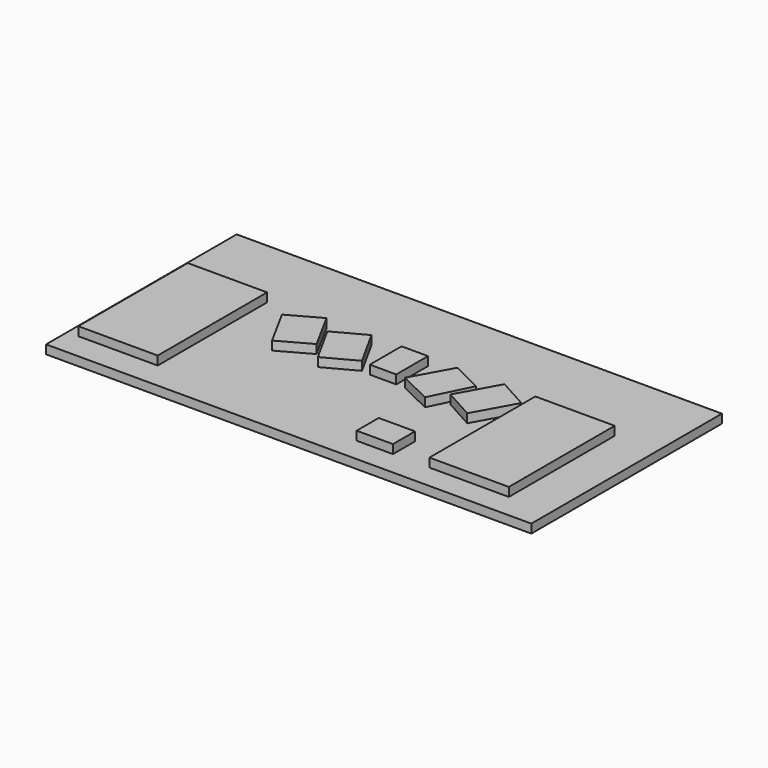
from build123d import *

# Parameters (mm, degrees)
F0_W     = 1397
F0_H     = 685.8
F1_DEPTH = 25.4
F2_W     = 228.6
F2_H     = 393.7
F2_H_2   = 381
F2_W_2   = 104.490054
F2_H_3   = 79.409756
F3_DEPTH = 25.4


with BuildPart() as f1:
    # F0 (on Top) → F1 (new body)
    with BuildSketch(Plane.XY):
        Rectangle(F0_W, F0_H)
    extrude(amount=F1_DEPTH)


with BuildPart() as f3:
    # F2 (on face) → F3 (new body)
    with BuildSketch(Plane.XY.offset(25.4)):
        Polygon((-38.1, 110.738006), (-38.1, -3.421758), (38.1, -3.561994), (38.1, 110.738006), align=None)
        with Locations((-552.45, -69.85)):
            Rectangle(F2_W, F2_H)
        with Locations((463.55, -82.55)):
            Rectangle(F2_W, F2_H_2)
        with Locations((191.945027, -233.345122)):
            Rectangle(F2_W_2, F2_H_3)
        Polygon((124.983611, 107.563006), (63.5, -3.561994), (157.786446, -50.210266), (214.044664, 63.5), align=None)
        Polygon((257.782698, 111.485978), (194.128571, -3.561994), (280.858056, -51.547973), (344.512182, 63.5), align=None)
        Polygon((-63.5, 0), (-124.983611, 111.125), (-213.883611, 63.5), (-152.4, -47.625), align=None)
        Polygon((-194.128571, 0), (-255.612182, 112.686888), (-344.512182, 63.5), (-283.028571, -49.186888), align=None)
    extrude(amount=F3_DEPTH)


solid = Compound([f1.part, f3.part])
